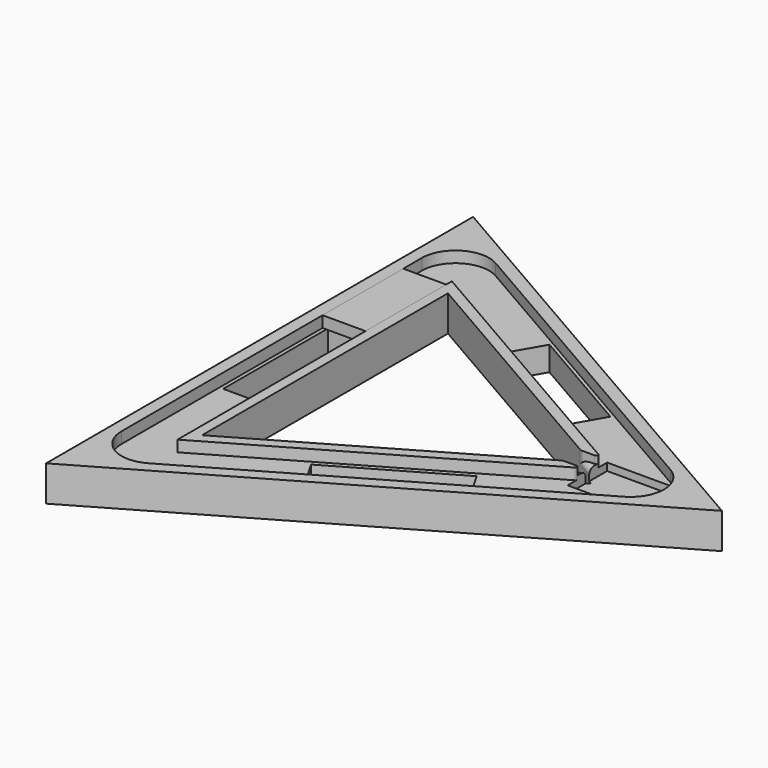
from build123d import *

# Parameters (mm, degrees)
BOX005_W               = 23
BOX005_H               = 54
BOX005_DEPTH           = 6
PRISM003_DEPTH         = 6
PRISM002_DEPTH         = 6
BOX004_W               = 10
BOX004_H               = 12
BOX004_DEPTH           = 4
BOX003_W               = 35
BOX003_H               = 26.5
BOX003_DEPTH           = 10
BOX002_W               = 70
BOX002_H               = 19
BOX002_DEPTH           = 19
BOX002_PLACEMENT_ANGLE = 30
BOX001_W               = 70
BOX001_H               = 19
BOX001_DEPTH           = 19
BOX001_PLACEMENT_ANGLE = 90
BOX_W                  = 70
BOX_H                  = 19
BOX_DEPTH              = 19
BOX_PLACEMENT_ANGLE    = 30
PRISM001_DEPTH         = 19
PRISM_DEPTH            = 19
FILLET_R               = 18
FILLET001_R            = 0.8
FILLET002_R            = 3


with BuildPart() as box005:
    # Box005 → Box005 (new body)
    with BuildSketch(Plane(origin=(-76, 34, 13), x_dir=(1, 0, 0), z_dir=(0, 0, 1))):
        with Locations((11.5, 27)):
            Rectangle(BOX005_W, BOX005_H)
    extrude(amount=BOX005_DEPTH)


with BuildPart() as prism003:
    # Prism003 → Prism003 (new body)
    with BuildSketch(Plane.XY.offset(13)):
        Polygon((106, 0), (-53, 91.798693), (-53, -91.798693), align=None)
    extrude(amount=PRISM003_DEPTH)


with BuildPart() as cut006:
    # Prism002 → Prism002 (new body)
    with BuildSketch(Plane.XY.offset(13)):
        Polygon((152, 0), (-76, 131.635861), (-76, -131.635861), align=None)
    extrude(amount=PRISM002_DEPTH)

    # Cut006: cut Prism003
    add(prism003.part, mode=Mode.SUBTRACT)


with BuildPart() as box004:
    # Box004 → Box004 (new body)
    with BuildSketch(Plane(origin=(84, -6, 15), x_dir=(1, 0, 0), z_dir=(0, 0, 1))):
        with Locations((5, 6)):
            Rectangle(BOX004_W, BOX004_H)
    extrude(amount=BOX004_DEPTH)


with BuildPart() as box003:
    # Box003 → Box003 (new body)
    with BuildSketch(Plane(origin=(93, -13.3, 9), x_dir=(1, 0, 0), z_dir=(0, 0, 1))):
        with Locations((17.5, 13.25)):
            Rectangle(BOX003_W, BOX003_H)
    extrude(amount=BOX003_DEPTH)


with BuildPart() as box002:
    # Box002 → Box002 (new body)
    with BuildSketch(Plane.XY):
        with Locations((35, 9.5)):
            Rectangle(BOX002_W, BOX002_H)
    extrude(amount=BOX002_DEPTH)


with BuildPart() as box002_1:
    # Box002 placement: moved
    add(box002.part.moved(Location((7, -82, 0))).rotate(Axis((7, -82, 0), (0, 0, 1)), BOX002_PLACEMENT_ANGLE))


with BuildPart() as box001:
    # Box001 → Box001 (new body)
    with BuildSketch(Plane.XY):
        with Locations((35, 9.5)):
            Rectangle(BOX001_W, BOX001_H)
    extrude(amount=BOX001_DEPTH)


with BuildPart() as box001_1:
    # Box001 placement: moved
    add(box001.part.moved(Location((-55, -35, 0))).rotate(Axis((-55, -35, 0), (0, 0, 1)), BOX001_PLACEMENT_ANGLE))


with BuildPart() as box:
    # Box → Box (new body)
    with BuildSketch(Plane.XY):
        with Locations((35, 9.5)):
            Rectangle(BOX_W, BOX_H)
    extrude(amount=BOX_DEPTH)


with BuildPart() as box_1:
    # Box placement: moved
    add(box.part.moved(Location((-2, 65, 0))).rotate(Axis((-2, 65, 0), (0, 0, -1)), BOX_PLACEMENT_ANGLE))


with BuildPart() as prism001:
    # Prism001 → Prism001 (new body)
    with BuildSketch(Plane.XY):
        Polygon((95, 0), (-47.5, 82.272413), (-47.5, -82.272413), align=None)
    extrude(amount=PRISM001_DEPTH)


with BuildPart() as fillet002:
    # Prism → Prism (new body)
    with BuildSketch(Plane.XY):
        Polygon((165, 0), (-82.5, 142.894192), (-82.5, -142.894192), align=None)
    extrude(amount=PRISM_DEPTH)

    # Cut: cut Prism001
    add(prism001.part, mode=Mode.SUBTRACT)

    # Cut001: cut Box
    add(box_1.part, mode=Mode.SUBTRACT)

    # Cut002: cut Box001
    add(box001_1.part, mode=Mode.SUBTRACT)

    # Cut003: cut Box002
    add(box002_1.part, mode=Mode.SUBTRACT)

    # Cut004: cut Box003
    add(box003.part, mode=Mode.SUBTRACT)

    # Cut005: cut Box004
    add(box004.part, mode=Mode.SUBTRACT)

    # Cut007: cut Cut006
    add(cut006.part, mode=Mode.SUBTRACT)

    # Fillet
    fillet_edges = [fillet002.edges().sort_by_distance(p)[0] for p in [
        (-76, 131.635861, 16),
        (-76, -131.635861, 16),
        (152, 0, 16),
    ]]
    fillet(fillet_edges, radius=FILLET_R)

    # Fillet001
    fillet001_edges = [fillet002.edges().sort_by_distance(p)[0] for p in [
        (93, 7.505553, 16),
        (93, 6, 17),
        (93, -6, 17),
        (93, -7.505553, 16),
    ]]
    fillet(fillet001_edges, radius=FILLET001_R)

    # Fillet002
    fillet002_edges = [fillet002.edges().sort_by_distance(p)[0] for p in [
        (88.803848, 3.57735, 15),
        (84.607695, 6, 17),
        (88.803848, -3.57735, 15),
        (84.607695, -6, 17),
    ]]
    fillet(fillet002_edges, radius=FILLET002_R)


solid = Compound([box005.part, fillet002.part])
